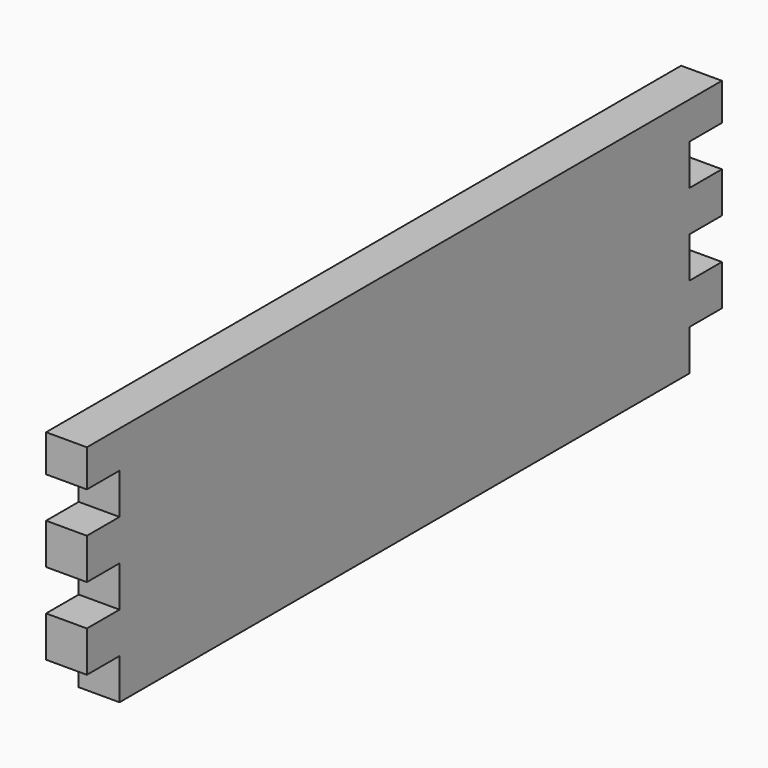
from build123d import *

# Parameters (mm, degrees)
F0_W     = 428
F0_H     = 130
F1_DEPTH = 22
F2_W     = 22
F2_H     = 22
F3_DEPTH = 25


with BuildPart() as f1:
    # F0 (on Right) → F1 (new body)
    with BuildSketch(Plane.YZ):
        with Locations((214, 65)):
            Rectangle(F0_W, F0_H)
    extrude(amount=F1_DEPTH)

    # F2 (on face) → F3 (cut)
    with BuildSketch(Plane.YZ.offset(22)):
        with Locations((11, 99)):
            Rectangle(F2_W, F2_H)
        with Locations((11, 55)):
            Rectangle(F2_W, F2_H)
        with Locations((11, 11)):
            Rectangle(F2_W, F2_H)
        with Locations((417, 11)):
            Rectangle(F2_W, F2_H)
        with Locations((417, 55)):
            Rectangle(F2_W, F2_H)
        with Locations((417, 99)):
            Rectangle(F2_W, F2_H)
    extrude(amount=-F3_DEPTH, mode=Mode.SUBTRACT)


solid = f1.part
